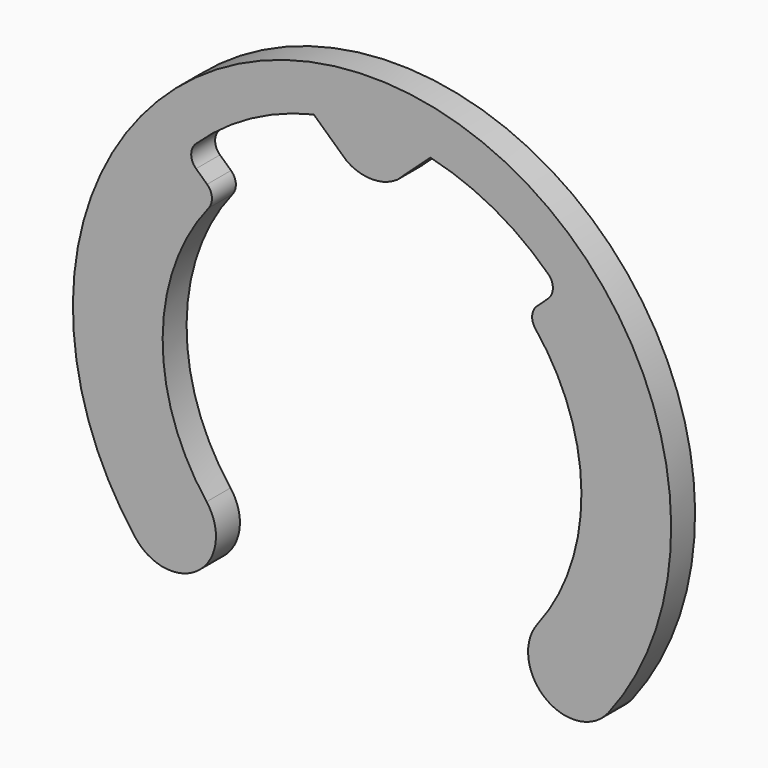
from build123d import *

# Parameters (mm, degrees)
F1_DEPTH = 1


with BuildPart() as f1:
    # F0 (on Front) → F1 (new body)
    with BuildSketch(Plane.XZ):
        with BuildLine():
            ThreePointArc((5.603368, -6.213072), (6.772983, -6.707441), (7.902676, -6.127619))
            ThreePointArc((7.902676, -6.127619), (0, 10), (-7.902676, -6.127619))
            ThreePointArc((-7.902676, -6.127619), (-6.839647, -6.703476), (-5.697122, -6.308153))
            ThreePointArc((-5.697122, -6.308153), (-5.649187, -6.261656), (-5.603368, -6.213072))
            ThreePointArc((-5.603368, -6.213072), (-5.218309, -5.264185), (-5.531873, -4.289333))
            ThreePointArc((-5.531873, -4.289333), (-6.999771, 0.056577), (-5.461816, 4.378192))
            ThreePointArc((-5.461816, 4.378192), (-5.353401, 4.729045), (-5.513905, 5.059334))
            Line((-5.513905, 5.059334), (-5.883088, 5.398081))
            ThreePointArc((-5.883088, 5.398081), (-6.045013, 5.760646), (-5.891612, 6.1269))
            ThreePointArc((-5.891612, 6.1269), (-4.064384, 7.465305), (-1.948566, 8.273638))
            Line((-1.948566, 8.273638), (-1.163527, 7.553319))
            Line((-1.163527, 7.553319), (-0.843326, 7.259516))
            ThreePointArc((-0.843326, 7.259516), (0, 7), (0.843326, 7.259516))
            Line((0.843326, 7.259516), (1.163527, 7.553319))
            Line((1.163527, 7.553319), (1.948566, 8.273638))
            ThreePointArc((1.948566, 8.273638), (4.064384, 7.465305), (5.891612, 6.1269))
            ThreePointArc((5.891612, 6.1269), (6.045013, 5.760646), (5.883088, 5.398081))
            Line((5.883088, 5.398081), (5.513905, 5.059334))
            ThreePointArc((5.513905, 5.059334), (5.353401, 4.729045), (5.461816, 4.378192))
            ThreePointArc((5.461816, 4.378192), (6.999771, 0.056577), (5.531873, -4.289333))
            ThreePointArc((5.531873, -4.289333), (5.218309, -5.264185), (5.603368, -6.213072))
        make_face()
    extrude(amount=F1_DEPTH)


solid = f1.part
